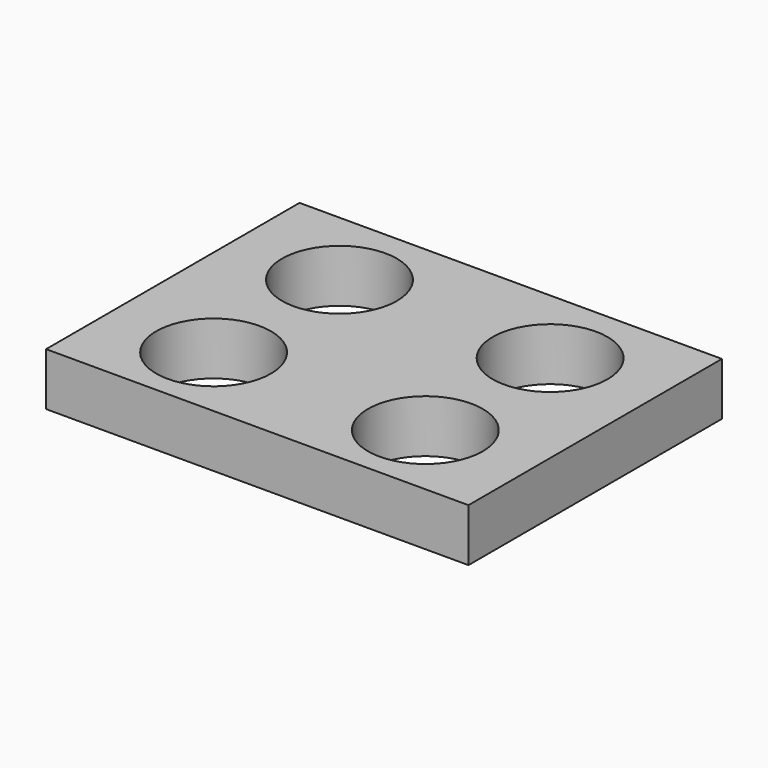
from build123d import *

# Parameters (mm, degrees)
SKETCH_W  = 80
SKETCH_H  = 60
SKETCH_R  = 10.868281
PAD_DEPTH = 10


with BuildPart() as part:
    # Sketch → Pad (new body)
    with BuildSketch(Plane.XY):
        Rectangle(SKETCH_W, SKETCH_H)
        with Locations((20, 14.323729)):
            Circle(SKETCH_R, mode=Mode.SUBTRACT)
        with Locations((20, -15.208609)):
            Circle(SKETCH_R, mode=Mode.SUBTRACT)
        with Locations((-20, 14.455572)):
            Circle(SKETCH_R, mode=Mode.SUBTRACT)
        with Locations((-20, -15.340449)):
            Circle(SKETCH_R, mode=Mode.SUBTRACT)
    extrude(amount=PAD_DEPTH)


solid = part.part
